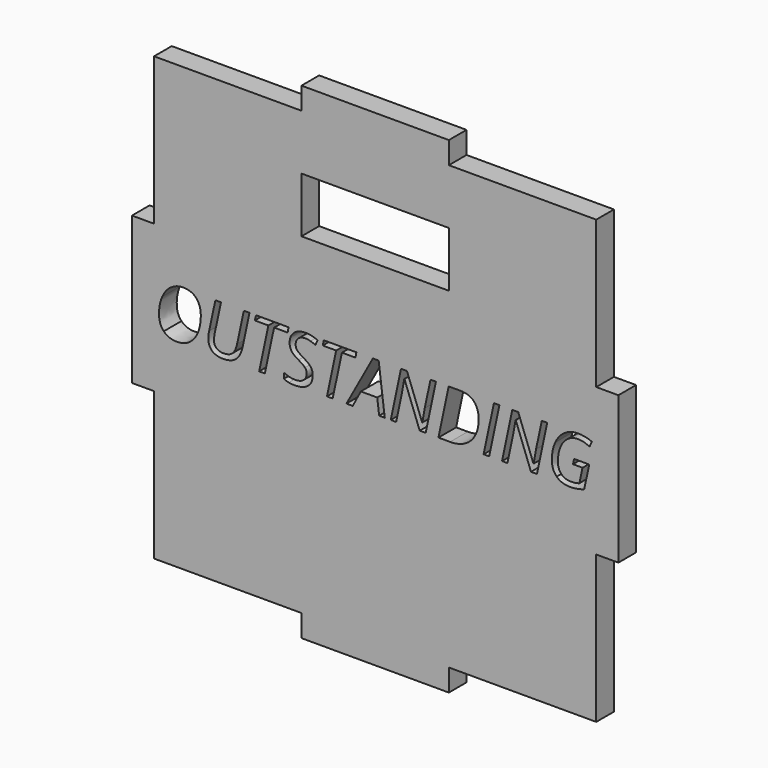
from build123d import *

# Parameters (mm, degrees)
F0_W     = 20
F0_H     = 7.5
F1_DEPTH = 3


with BuildPart() as f1:
    # F0 (on Front) → F1 (new body)
    with BuildSketch(Plane.XZ):
        Polygon((-33, 10), (-33, 0), (-33, -10), (-30, -10), (-30, -30), (-10, -30), (-10, -33), (0, -33), (10, -33), (10, -30), (30, -30), (30, -10), (33, -10), (33, 0), (33, 10), (30, 10), (30, 30), (10, 30), (10, 33), (0, 33), (-10, 33), (-10, 30), (-30, 30), (-30, 10), align=None)
        with BuildLine():
            add(Edge.make_bspline(
                [(-24.2901301129, 2.9801595859), (-23.6611314787, 2.2879016606), (-23.6611314787, 1.0744734383)],
                knots=[0, 0, 0, 1, 1, 1], degree=2))
            add(Edge.make_bspline(
                [(-23.6611314787, 1.0744734383), (-23.6611314787, -0.1332039393), (-24.0565020487, -1.0878441521)],
                knots=[0, 0, 0, 1, 1, 1], degree=2))
            add(Edge.make_bspline(
                [(-24.0565020487, -1.0878441521), (-24.4518726188, -2.0424843649), (-25.1886995903, -2.5665300841)],
                knots=[0, 0, 0, 1, 1, 1], degree=2))
            add(Edge.make_bspline(
                [(-25.1886995903, -2.5665300841), (-25.9255265617, -3.0905758033), (-26.8902307526, -3.0905758033)],
                knots=[0, 0, 0, 1, 1, 1], degree=2))
            add(Edge.make_bspline(
                [(-26.8902307526, -3.0905758033), (-28.0403996837, -3.0905758033), (-28.6830565739, -2.4184458342)],
                knots=[0, 0, 0, 1, 1, 1], degree=2))
            add(Edge.make_bspline(
                [(-28.6830565739, -2.4184458342), (-29.3257134642, -1.7463158651), (-29.3257134642, -0.5328876429)],
                knots=[0, 0, 0, 1, 1, 1], degree=2))
            add(Edge.make_bspline(
                [(-29.3257134642, -0.5328876429), (-29.3257134642, 0.6532240673), (-28.894400115, 1.6323053699)],
                knots=[0, 0, 0, 1, 1, 1], degree=2))
            add(Edge.make_bspline(
                [(-28.894400115, 1.6323053699), (-28.4630867659, 2.6113866724), (-27.7104449716, 3.1419020919)],
                knots=[0, 0, 0, 1, 1, 1], degree=2))
            add(Edge.make_bspline(
                [(-27.7104449716, 3.1419020919), (-26.9578031773, 3.6724175113), (-26.0146646539, 3.6724175113)],
                knots=[0, 0, 0, 1, 1, 1], degree=2))
            add(Edge.make_bspline(
                [(-26.0146646539, 3.6724175113), (-24.919128747, 3.6724175113), (-24.2901301129, 2.9801595859)],
                knots=[0, 0, 0, 1, 1, 1], degree=2))
        make_face(mode=Mode.SUBTRACT)
        with BuildLine():
            Line((-17.8153978866, 3.5689023075), (-17.0519732586, 3.5689023075))
            Line((-17.0519732586, 3.5689023075), (-17.9735461146, -0.7715476961))
            add(Edge.make_bspline(
                [(-17.9735461146, -0.7715476961), (-18.2208324348, -1.9533462727), (-18.8606139027, -2.521961038)],
                knots=[0, 0, 0, 1, 1, 1], degree=2))
            add(Edge.make_bspline(
                [(-18.8606139027, -2.521961038), (-19.5003953706, -3.0905758033), (-20.6059952556, -3.0905758033)],
                knots=[0, 0, 0, 1, 1, 1], degree=2))
            add(Edge.make_bspline(
                [(-20.6059952556, -3.0905758033), (-21.6397095823, -3.0905758033), (-22.1378765006, -2.6226008195)],
                knots=[0, 0, 0, 1, 1, 1], degree=2))
            add(Edge.make_bspline(
                [(-22.1378765006, -2.6226008195), (-22.6360434189, -2.1546258357), (-22.6360434189, -1.2790597369)],
                knots=[0, 0, 0, 1, 1, 1], degree=2))
            add(Edge.make_bspline(
                [(-22.6360434189, -1.2790597369), (-22.6360434189, -0.9153188125), (-22.5282150816, -0.376177126)],
                knots=[0, 0, 0, 1, 1, 1], degree=2))
            Line((-22.5282150816, -0.376177126), (-21.6799654949, 3.5689023075))
            Line((-21.6799654949, 3.5689023075), (-20.9165408669, 3.5689023075))
            Line((-20.9165408669, 3.5689023075), (-21.7734167206, -0.4351232837))
            add(Edge.make_bspline(
                [(-21.7734167206, -0.4351232837), (-21.8726187909, -0.911005679), (-21.8726187909, -1.2790597369)],
                knots=[0, 0, 0, 1, 1, 1], degree=2))
            add(Edge.make_bspline(
                [(-21.8726187909, -1.2790597369), (-21.8726187909, -1.8052620229), (-21.5448206455, -2.1086190784)],
                knots=[0, 0, 0, 1, 1, 1], degree=2))
            add(Edge.make_bspline(
                [(-21.5448206455, -2.1086190784), (-21.2170225002, -2.411976134), (-20.565739343, -2.411976134)],
                knots=[0, 0, 0, 1, 1, 1], degree=2))
            add(Edge.make_bspline(
                [(-20.565739343, -2.411976134), (-19.7922507368, -2.411976134), (-19.3630939544, -2.0187621307)],
                knots=[0, 0, 0, 1, 1, 1], degree=2))
            add(Edge.make_bspline(
                [(-19.3630939544, -2.0187621307), (-18.933937172, -1.6255481274), (-18.7369707426, -0.7169146718)],
                knots=[0, 0, 0, 1, 1, 1], degree=2))
            Line((-18.7369707426, -0.7169146718), (-17.8153978866, 3.5689023075))
        make_face(mode=Mode.SUBTRACT)
        Polygon((-13.7136079362, 2.8903026382), (-14.967292071, -3), (-15.7407806772, -3), (-14.4957228093, 2.8903026382), (-16.3201782762, 2.8903026382), (-16.1720940263, 3.5689023075), (-11.7453813529, 3.5689023075), (-11.8805262023, 2.8903026382), align=None, mode=Mode.SUBTRACT)
        with BuildLine():
            add(Edge.make_bspline(
                [(-8.5888864927, -0.463877507), (-8.4702753217, -0.735604917), (-8.4702753217, -1.0950327079)],
                knots=[0, 0, 0, 1, 1, 1], degree=2))
            add(Edge.make_bspline(
                [(-8.4702753217, -1.0950327079), (-8.4702753217, -2.0424843649), (-9.1014305226, -2.5665300841)],
                knots=[0, 0, 0, 1, 1, 1], degree=2))
            add(Edge.make_bspline(
                [(-9.1014305226, -2.5665300841), (-9.7325857235, -3.0905758033), (-10.8784415211, -3.0905758033)],
                knots=[0, 0, 0, 1, 1, 1], degree=2))
            add(Edge.make_bspline(
                [(-10.8784415211, -3.0905758033), (-11.3543239163, -3.0905758033), (-11.715908274, -3.0251599454)],
                knots=[0, 0, 0, 1, 1, 1], degree=2))
            add(Edge.make_bspline(
                [(-11.715908274, -3.0251599454), (-12.0774926317, -2.9597440874), (-12.3966645101, -2.807346704)],
                knots=[0, 0, 0, 1, 1, 1], degree=2))
            Line((-12.3966645101, -2.807346704), (-12.3966645101, -2.0424843649))
            add(Edge.make_bspline(
                [(-12.3966645101, -2.0424843649), (-11.6691826612, -2.420602401), (-10.8698152541, -2.420602401)],
                knots=[0, 0, 0, 1, 1, 1], degree=2))
            add(Edge.make_bspline(
                [(-10.8698152541, -2.420602401), (-10.1408956941, -2.420602401), (-9.714614334, -2.0813025663)],
                knots=[0, 0, 0, 1, 1, 1], degree=2))
            add(Edge.make_bspline(
                [(-9.714614334, -2.0813025663), (-9.2883329739, -1.7420027317), (-9.2883329739, -1.148228021)],
                knots=[0, 0, 0, 1, 1, 1], degree=2))
            add(Edge.make_bspline(
                [(-9.2883329739, -1.148228021), (-9.2883329739, -0.7988642082), (-9.5241176048, -0.5314499317)],
                knots=[0, 0, 0, 1, 1, 1], degree=2))
            add(Edge.make_bspline(
                [(-9.5241176048, -0.5314499317), (-9.7599022356, -0.2640356552), (-10.4025591259, 0.0997052692)],
                knots=[0, 0, 0, 1, 1, 1], degree=2))
            add(Edge.make_bspline(
                [(-10.4025591259, 0.0997052692), (-11.079721084, 0.4821364388), (-11.342822227, 0.8638487528)],
                knots=[0, 0, 0, 1, 1, 1], degree=2))
            add(Edge.make_bspline(
                [(-11.342822227, 0.8638487528), (-11.60592337, 1.2455610668), (-11.60592337, 1.7674502193)],
                knots=[0, 0, 0, 1, 1, 1], degree=2))
            add(Edge.make_bspline(
                [(-11.60592337, 1.7674502193), (-11.60592337, 2.6070735389), (-11.0128675149, 3.1347135361)],
                knots=[0, 0, 0, 1, 1, 1], degree=2))
            add(Edge.make_bspline(
                [(-11.0128675149, 3.1347135361), (-10.4198116598, 3.6623535332), (-9.4536697577, 3.6623535332)],
                knots=[0, 0, 0, 1, 1, 1], degree=2))
            add(Edge.make_bspline(
                [(-9.4536697577, 3.6623535332), (-9.0094170081, 3.6623535332), (-8.6248292718, 3.5775285745)],
                knots=[0, 0, 0, 1, 1, 1], degree=2))
            add(Edge.make_bspline(
                [(-8.6248292718, 3.5775285745), (-8.2402415355, 3.4927036158), (-7.814679031, 3.2856732083)],
                knots=[0, 0, 0, 1, 1, 1], degree=2))
            Line((-7.814679031, 3.2856732083), (-8.1108475307, 2.6113866724))
            add(Edge.make_bspline(
                [(-8.1108475307, 2.6113866724), (-8.4070160305, 2.7824743009), (-8.775788944, 2.8809575156)],
                knots=[0, 0, 0, 1, 1, 1], degree=2))
            add(Edge.make_bspline(
                [(-8.775788944, 2.8809575156), (-9.1445618575, 2.9794407304), (-9.4536697577, 2.9794407304)],
                knots=[0, 0, 0, 1, 1, 1], degree=2))
            add(Edge.make_bspline(
                [(-9.4536697577, 2.9794407304), (-10.0560707354, 2.9794407304), (-10.4219682266, 2.6674574078)],
                knots=[0, 0, 0, 1, 1, 1], degree=2))
            add(Edge.make_bspline(
                [(-10.4219682266, 2.6674574078), (-10.7878657178, 2.3554740853), (-10.7878657178, 1.8206455323)],
                knots=[0, 0, 0, 1, 1, 1], degree=2))
            add(Edge.make_bspline(
                [(-10.7878657178, 1.8206455323), (-10.7878657178, 1.5776723456), (-10.7116670261, 1.405147006)],
                knots=[0, 0, 0, 1, 1, 1], degree=2))
            add(Edge.make_bspline(
                [(-10.7116670261, 1.405147006), (-10.6354683344, 1.2326216663), (-10.469412695, 1.0795054274)],
                knots=[0, 0, 0, 1, 1, 1], degree=2))
            add(Edge.make_bspline(
                [(-10.469412695, 1.0795054274), (-10.3033570556, 0.9263891884), (-9.8317877938, 0.6532240673)],
                knots=[0, 0, 0, 1, 1, 1], degree=2))
            add(Edge.make_bspline(
                [(-9.8317877938, 0.6532240673), (-9.1704406585, 0.2578534972), (-8.9389691611, 0.0328517001)],
                knots=[0, 0, 0, 1, 1, 1], degree=2))
            add(Edge.make_bspline(
                [(-8.9389691611, 0.0328517001), (-8.7074976637, -0.192150097), (-8.5888864927, -0.463877507)],
                knots=[0, 0, 0, 1, 1, 1], degree=2))
        make_face(mode=Mode.SUBTRACT)
        Polygon((-4.5108187765, 2.8903026382), (-5.7645029114, -3), (-6.5379915175, -3), (-5.2929336496, 2.8903026382), (-7.1173891165, 2.8903026382), (-6.9693048667, 3.5689023075), (-2.5425921932, 3.5689023075), (-2.6777370426, 2.8903026382), align=None, mode=Mode.SUBTRACT)
        Polygon((0.539860542, -3), (0.2839479549, -0.911005679), (-1.9445043491, -0.911005679), (-3.0457911006, -3), (-3.8954783984, -3), (-0.3055136223, 3.5689023075), (0.4766012508, 3.5689023075), (1.30328517, -3), align=None, mode=Mode.SUBTRACT)
        with BuildLine():
            Line((8.244554669, 3.5689023075), (6.8557256847, -3))
            Line((6.8557256847, -3), (6.0434188771, -3))
            Line((6.0434188771, -3), (3.9759902236, 2.4949320681))
            Line((3.9759902236, 2.4949320681), (3.9501114226, 2.4949320681))
            add(Edge.make_bspline(
                [(3.9501114226, 2.4949320681), (3.8063403062, 1.5014736539), (3.6165624326, 0.6172812882)],
                knots=[0, 0, 0, 1, 1, 1], degree=2))
            Line((3.6165624326, 0.6172812882), (2.8445115376, -3))
            Line((2.8445115376, -3), (2.1170296887, -3))
            Line((2.1170296887, -3), (3.5044209618, 3.5689023075))
            Line((3.5044209618, 3.5689023075), (4.3138523471, 3.5689023075))
            Line((4.3138523471, 3.5689023075), (6.375530156, -1.9130903601))
            Line((6.375530156, -1.9130903601), (6.4028466681, -1.9130903601))
            add(Edge.make_bspline(
                [(6.4028466681, -1.9130903601), (6.5379915175, -0.9066925455), (6.72633168, -0.0929480267)],
                knots=[0, 0, 0, 1, 1, 1], degree=2))
            Line((6.72633168, -0.0929480267), (7.5084465531, 3.5689023075))
            Line((7.5084465531, 3.5689023075), (8.244554669, 3.5689023075))
        make_face(mode=Mode.SUBTRACT)
        with BuildLine():
            add(Edge.make_bspline(
                [(13.3965926245, 2.8967723384), (14.0414060815, 2.2246423693), (14.0414060815, 0.9407663001)],
                knots=[0, 0, 0, 1, 1, 1], degree=2))
            add(Edge.make_bspline(
                [(14.0414060815, 0.9407663001), (14.0414060815, -0.2324060096), (13.5691179642, -1.130975487)],
                knots=[0, 0, 0, 1, 1, 1], degree=2))
            add(Edge.make_bspline(
                [(13.5691179642, -1.130975487), (13.0968298469, -2.0295449644), (12.2212637481, -2.5147724822)],
                knots=[0, 0, 0, 1, 1, 1], degree=2))
            add(Edge.make_bspline(
                [(12.2212637481, -2.5147724822), (11.3456976493, -3), (10.1682122062, -3)],
                knots=[0, 0, 0, 1, 1, 1], degree=2))
            Line((10.1682122062, -3), (8.586729926, -3))
            Line((8.586729926, -3), (9.9741211991, 3.5689023075))
            Line((9.9741211991, 3.5689023075), (11.5110344332, 3.5689023075))
            add(Edge.make_bspline(
                [(11.5110344332, 3.5689023075), (12.7517791676, 3.5689023075), (13.3965926245, 2.8967723384)],
                knots=[0, 0, 0, 1, 1, 1], degree=2))
        make_face(mode=Mode.SUBTRACT)
        Polygon((15.4704909784, -3), (14.7156926174, -3), (16.1131478686, 3.5689023075), (16.8679462296, 3.5689023075), align=None, mode=Mode.SUBTRACT)
        with BuildLine():
            Line((23.3462727338, 3.5689023075), (21.9574437496, -3))
            Line((21.9574437496, -3), (21.145136942, -3))
            Line((21.145136942, -3), (19.0777082884, 2.4949320681))
            Line((19.0777082884, 2.4949320681), (19.0518294875, 2.4949320681))
            add(Edge.make_bspline(
                [(19.0518294875, 2.4949320681), (18.9080583711, 1.5014736539), (18.7182804974, 0.6172812882)],
                knots=[0, 0, 0, 1, 1, 1], degree=2))
            Line((18.7182804974, 0.6172812882), (17.9462296025, -3))
            Line((17.9462296025, -3), (17.2187477536, -3))
            Line((17.2187477536, -3), (18.6061390267, 3.5689023075))
            Line((18.6061390267, 3.5689023075), (19.4155704119, 3.5689023075))
            Line((19.4155704119, 3.5689023075), (21.4772482208, -1.9130903601))
            Line((21.4772482208, -1.9130903601), (21.5045647329, -1.9130903601))
            add(Edge.make_bspline(
                [(21.5045647329, -1.9130903601), (21.6397095823, -0.9066925455), (21.8280497448, -0.0929480267)],
                knots=[0, 0, 0, 1, 1, 1], degree=2))
            Line((21.8280497448, -0.0929480267), (22.6101646179, 3.5689023075))
            Line((22.6101646179, 3.5689023075), (23.3462727338, 3.5689023075))
        make_face(mode=Mode.SUBTRACT)
        with BuildLine():
            Line((26.8427862842, -0.2410322766), (26.9908705341, 0.4418805262))
            Line((26.9908705341, 0.4418805262), (29.052548343, 0.4418805262))
            Line((29.052548343, 0.4418805262), (28.3610092732, -2.7527136798))
            add(Edge.make_bspline(
                [(28.3610092732, -2.7527136798), (27.3905542377, -3.0905758033), (26.4776076486, -3.0905758033)],
                knots=[0, 0, 0, 1, 1, 1], degree=2))
            add(Edge.make_bspline(
                [(26.4776076486, -3.0905758033), (25.2914959385, -3.0905758033), (24.633743081, -2.4407303573)],
                knots=[0, 0, 0, 1, 1, 1], degree=2))
            add(Edge.make_bspline(
                [(24.633743081, -2.4407303573), (23.9759902236, -1.7908849112), (23.9759902236, -0.6277765797)],
                knots=[0, 0, 0, 1, 1, 1], degree=2))
            add(Edge.make_bspline(
                [(23.9759902236, -0.6277765797), (23.9759902236, 0.5813385091), (24.4317446625, 1.571921501)],
                knots=[0, 0, 0, 1, 1, 1], degree=2))
            add(Edge.make_bspline(
                [(24.4317446625, 1.571921501), (24.8874991014, 2.5625044928), (25.6962116311, 3.112429013)],
                knots=[0, 0, 0, 1, 1, 1], degree=2))
            add(Edge.make_bspline(
                [(25.6962116311, 3.112429013), (26.5049241607, 3.6623535332), (27.489756308, 3.6623535332)],
                knots=[0, 0, 0, 1, 1, 1], degree=2))
            add(Edge.make_bspline(
                [(27.489756308, 3.6623535332), (28.0145208828, 3.6623535332), (28.4753073108, 3.5724965854)],
                knots=[0, 0, 0, 1, 1, 1], degree=2))
            add(Edge.make_bspline(
                [(28.4753073108, 3.5724965854), (28.9360937388, 3.4826396377), (29.403349867, 3.2856732083)],
                knots=[0, 0, 0, 1, 1, 1], degree=2))
            Line((29.403349867, 3.2856732083), (29.1071813673, 2.6027604054))
            add(Edge.make_bspline(
                [(29.1071813673, 2.6027604054), (28.7606929768, 2.7551577888), (28.36316584, 2.8672992596)],
                knots=[0, 0, 0, 1, 1, 1], degree=2))
            add(Edge.make_bspline(
                [(28.36316584, 2.8672992596), (27.9656387032, 2.9794407304), (27.489756308, 2.9794407304)],
                knots=[0, 0, 0, 1, 1, 1], degree=2))
            add(Edge.make_bspline(
                [(27.489756308, 2.9794407304), (26.7292071023, 2.9794407304), (26.1073970239, 2.5236862914)],
                knots=[0, 0, 0, 1, 1, 1], degree=2))
            add(Edge.make_bspline(
                [(26.1073970239, 2.5236862914), (25.4855869456, 2.0679318525), (25.1398174107, 1.2505930559)],
                knots=[0, 0, 0, 1, 1, 1], degree=2))
            add(Edge.make_bspline(
                [(25.1398174107, 1.2505930559), (24.7940478758, 0.4332542592), (24.7940478758, -0.5788944001)],
                knots=[0, 0, 0, 1, 1, 1], degree=2))
            add(Edge.make_bspline(
                [(24.7940478758, -0.5788944001), (24.7940478758, -1.4314571203), (25.2541154482, -1.9217166271)],
                knots=[0, 0, 0, 1, 1, 1], degree=2))
            add(Edge.make_bspline(
                [(25.2541154482, -1.9217166271), (25.7141830206, -2.411976134), (26.5408669398, -2.411976134)],
                knots=[0, 0, 0, 1, 1, 1], degree=2))
            add(Edge.make_bspline(
                [(26.5408669398, -2.411976134), (27.2324060096, -2.411976134), (27.709726116, -2.236575372)],
                knots=[0, 0, 0, 1, 1, 1], degree=2))
            Line((27.709726116, -2.236575372), (28.1410394652, -0.2410322766))
            Line((28.1410394652, -0.2410322766), (26.8427862842, -0.2410322766))
        make_face(mode=Mode.SUBTRACT)
        with Locations((0, 18.75)):
            Rectangle(F0_W, F0_H, mode=Mode.SUBTRACT)
    extrude(amount=F1_DEPTH)


solid = f1.part
